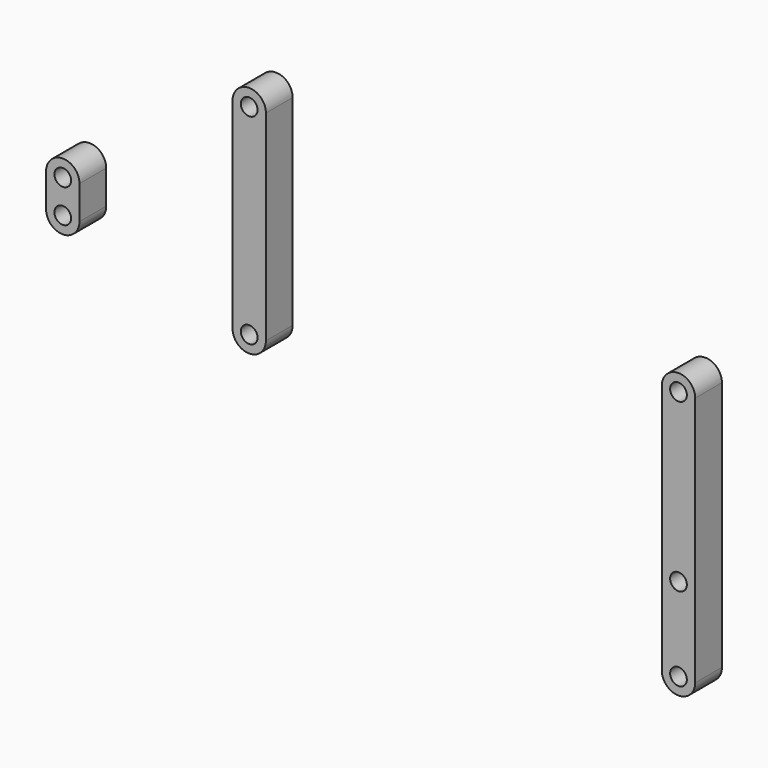
from build123d import *

# Parameters (mm, degrees)
F0_R     = 2.5
F1_DEPTH = 10
F2_R     = 2.5
F3_DEPTH = 10
F4_R     = 2.5
F5_DEPTH = 10


with BuildPart() as f1:
    # F0 (on Front) → F1 (new body)
    with BuildSketch(Plane.XZ):
        with BuildLine():
            ThreePointArc((5, 37.5), (0, 42.5), (-5, 37.5))
            Line((-5, 37.5), (-5, -37.5))
            ThreePointArc((-5, -37.5), (0, -42.5), (5, -37.5))
            Line((5, -37.5), (5, 37.5))
        make_face()
        with Locations((0, -37.5)):
            Circle(F0_R, mode=Mode.SUBTRACT)
        with Locations((0, -12.5)):
            Circle(F0_R, mode=Mode.SUBTRACT)
        with Locations((0, 37.5)):
            Circle(F0_R, mode=Mode.SUBTRACT)
    extrude(amount=F1_DEPTH)


with BuildPart() as f3:
    # F2 (on Front) → F3 (new body)
    with BuildSketch(Plane.XZ):
        with BuildLine():
            ThreePointArc((-123.498, 70.837746), (-128.498, 75.837746), (-133.498, 70.837746))
            Line((-133.498, 70.837746), (-133.498, 10.837746))
            ThreePointArc((-133.498, 10.837746), (-128.498, 5.837746), (-123.498, 10.837746))
            Line((-123.498, 10.837746), (-123.498, 70.837746))
        make_face()
        with Locations((-128.498, 10.837746)):
            Circle(F2_R, mode=Mode.SUBTRACT)
        with Locations((-128.498, 70.837746)):
            Circle(F2_R, mode=Mode.SUBTRACT)
    extrude(amount=F3_DEPTH)


with BuildPart() as f5:
    # F4 (on Front) → F5 (new body)
    with BuildSketch(Plane.XZ):
        with BuildLine():
            ThreePointArc((-179.299712, 34.096847), (-184.299712, 39.096847), (-189.299712, 34.096847))
            Line((-189.299712, 34.096847), (-189.299712, 24.096847))
            ThreePointArc((-189.299712, 24.096847), (-184.299712, 19.096847), (-179.299712, 24.096847))
            Line((-179.299712, 24.096847), (-179.299712, 34.096847))
        make_face()
        with Locations((-184.299712, 24.096847)):
            Circle(F4_R, mode=Mode.SUBTRACT)
        with Locations((-184.299712, 34.096847)):
            Circle(F4_R, mode=Mode.SUBTRACT)
    extrude(amount=F5_DEPTH)


solid = Compound([f1.part, f3.part, f5.part])
